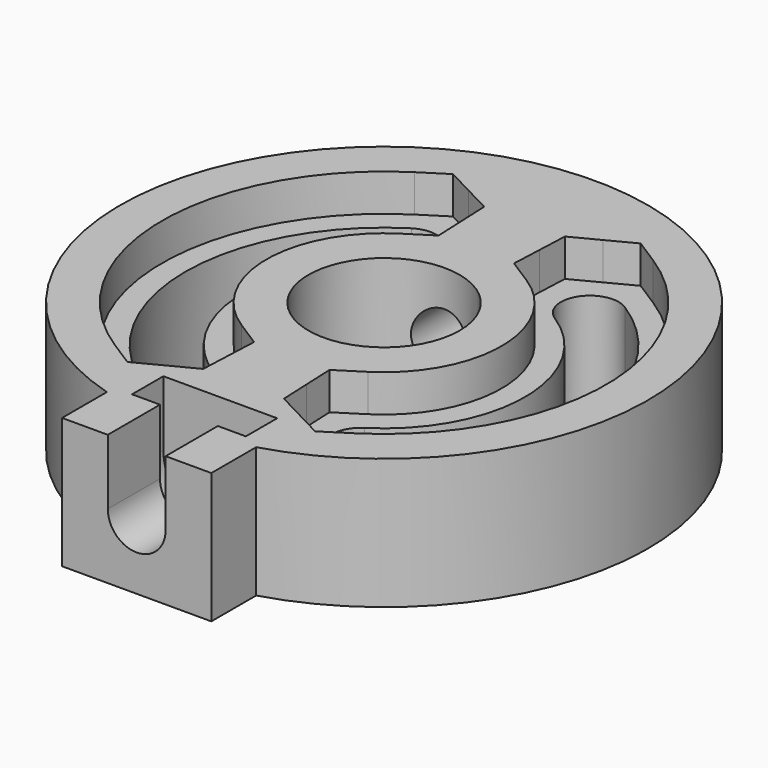
from build123d import *

# Parameters (mm, degrees)
SKETCH_R        = 4.05
EXTRUDE_DEPTH   = 7
SKETCH001_R     = 1.55
POCKET_DEPTH    = 30.723859
POCKET001_DEPTH = 3.5
POCKET002_DEPTH = 2.1
POCKET003_DEPTH = 2


with BuildPart() as part:
    # Sketch → Extrude (new body)
    with BuildSketch(Plane.XY):
        with BuildLine():
            ThreePointArc((4, -13.572859), (0, 14.15), (-4, -13.572859))
            Line((-4, -13.572859), (-4, -16.572859))
            Line((-4, -16.572859), (4, -16.572859))
            Line((4, -16.572859), (4, -13.572859))
        make_face()
        Circle(SKETCH_R, mode=Mode.SUBTRACT)
        with BuildLine():
            ThreePointArc((-4.056612, 6.367605), (-7.55, 0), (-4.056612, -6.367605))
            ThreePointArc((-5.722241, -8.982119), (-3.58217, -8.507677), (-4.056612, -6.367605))
            ThreePointArc((-5.722241, 8.982119), (-10.65, 0), (-5.722241, -8.982119))
            ThreePointArc((-4.056612, 6.367605), (-3.58217, 8.507677), (-5.722241, 8.982119))
        make_face(mode=Mode.SUBTRACT)
        with BuildLine():
            ThreePointArc((4.056612, -6.367605), (7.55, 0), (4.056612, 6.367605))
            ThreePointArc((5.722241, 8.982119), (3.58217, 8.507677), (4.056612, 6.367605))
            ThreePointArc((5.722241, -8.982119), (10.65, 0), (5.722241, 8.982119))
            ThreePointArc((4.056612, -6.367605), (3.58217, -8.507677), (5.722241, -8.982119))
        make_face(mode=Mode.SUBTRACT)
    extrude(amount=EXTRUDE_DEPTH)

    # Sketch001 → Pocket (cut, through all)
    with BuildSketch(Plane.XZ.offset(16.572859)):
        with Locations((0, 3.5)):
            Circle(SKETCH001_R)
    extrude(amount=-POCKET_DEPTH, mode=Mode.SUBTRACT)

    # Sketch002 → Pocket001 (cut)
    with BuildSketch(Plane.XY.offset(7)):
        Polygon((-3.049999, -10.972859), (-3.049999, -13.072859), (-1.549999, -13.072859), (-1.549999, -16.572859), (1.550001, -16.572859), (1.550001, -13.072859), (3.050001, -13.072859), (3.050001, -10.972859), align=None)
    extrude(amount=-POCKET001_DEPTH, mode=Mode.SUBTRACT)

    # Sketch003 → Pocket002 (cut)
    with BuildSketch(Plane.XZ.offset(10.972859)):
        with BuildLine():
            ThreePointArc((-3.050001, 3.5), (0, 0.449999), (3.050001, 3.5))
            Line((-3.050001, 3.5), (3.050001, 3.5))
        make_face()
    extrude(amount=POCKET002_DEPTH, mode=Mode.SUBTRACT)

    # Sketch004 → Pocket003 (cut)
    with BuildSketch(Plane.XY.offset(7)):
        with BuildLine():
            ThreePointArc((-3.384988, 5.313366), (-6.3, 0), (-3.384988, -5.313366))
            Line((-3.384988, -5.313366), (-2.021577, -6.181954))
            Line((-2.021577, -6.181954), (-2.092091, -7.796996))
            Line((-2.092091, -7.796996), (-2.162606, -9.412039))
            Line((-2.162606, -9.412039), (-3.59653, -10.158493))
            Line((-3.59653, -10.158493), (-5.030455, -10.904946))
            Line((-5.030455, -10.904946), (-6.393865, -10.036358))
            ThreePointArc((-6.393865, 10.036358), (-11.9, 0), (-6.393865, -10.036358))
            Line((-6.393865, 10.036358), (-5.030455, 10.904946))
            Line((-5.030455, 10.904946), (-3.59653, 10.158492))
            Line((-3.59653, 10.158492), (-2.162606, 9.412039))
            Line((-2.162606, 9.412039), (-2.092091, 7.796997))
            Line((-2.092091, 7.796997), (-2.021577, 6.181954))
            Line((-2.021577, 6.181954), (-3.384988, 5.313366))
        make_face()
        with BuildLine():
            ThreePointArc((3.384988, -5.313366), (6.3, 0), (3.384988, 5.313366))
            Line((3.384988, 5.313366), (2.021577, 6.181954))
            Line((2.021577, 6.181954), (2.092091, 7.796996))
            Line((2.092091, 7.796996), (2.162606, 9.412039))
            Line((2.162606, 9.412039), (3.59653, 10.158493))
            Line((3.59653, 10.158493), (5.030455, 10.904946))
            Line((5.030455, 10.904946), (6.393865, 10.036358))
            ThreePointArc((6.393865, -10.036358), (11.9, 0), (6.393865, 10.036358))
            Line((5.030457, -10.904952), (6.393865, -10.036358))
            Line((3.596533, -10.158494), (5.030457, -10.904952))
            Line((2.16261, -9.412036), (3.596533, -10.158494))
            Line((2.092091, -7.796993), (2.16261, -9.412036))
            Line((2.021573, -6.18195), (2.092091, -7.796993))
            Line((3.384988, -5.313366), (2.021573, -6.18195))
        make_face()
    extrude(amount=-POCKET003_DEPTH, mode=Mode.SUBTRACT)


solid = part.part
